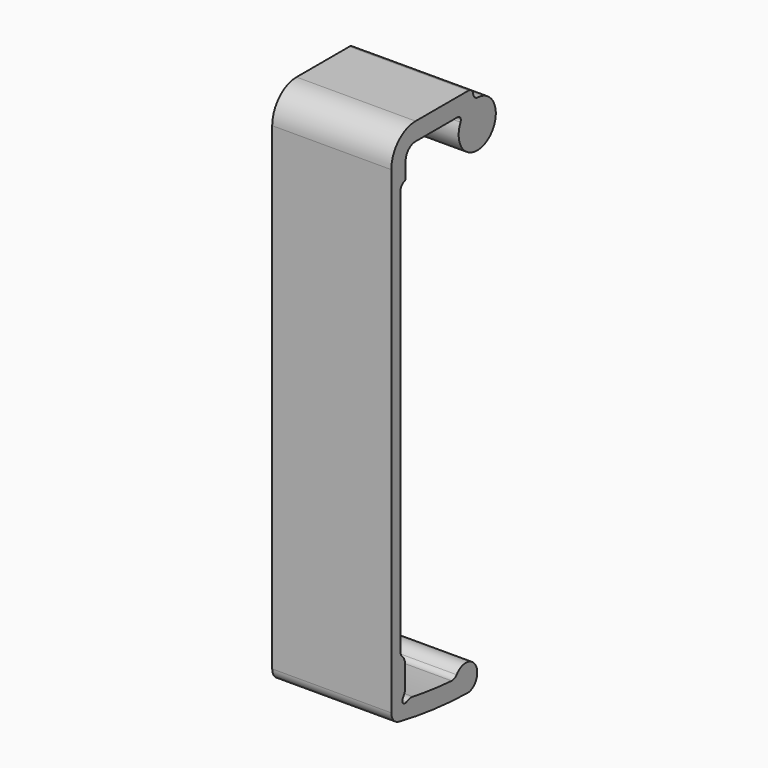
from build123d import *

# Parameters (mm, degrees)
F4_DEPTH = 10


with BuildPart() as f4:
    # F3 (on Right) → F4 (new body)
    with BuildSketch(Plane.YZ):
        with BuildLine():
            ThreePointArc((0.896797, 37.55), (1.193243, 37.386063), (1.211984, 37.047826))
            ThreePointArc((1.211984, 37.047826), (3.978949, 34.532505), (3.028454, 38.149064))
            ThreePointArc((3.028454, 38.149064), (2.716657, 38.270827), (2.551544, 38.561999))
            Line((2.551544, 38.561999), (2.53835, 38.636824))
            ThreePointArc((2.53835, 38.636824), (2.36734, 38.933022), (2.045946, 39.05))
            Line((2.045946, 39.05), (-3.5, 39.05))
            ThreePointArc((-3.5, 39.05), (-5.303122, 38.303122), (-6.05, 36.5))
            Line((-6.05, 36.5), (-6.05, -3.652234))
            ThreePointArc((-6.05, -3.652234), (-5.823706, -4.285779), (-5.247241, -4.632589))
            ThreePointArc((-5.247241, -4.632589), (-1.684461, -5.19016), (1.913195, -5.437463))
            ThreePointArc((1.913195, -5.437463), (2.415491, -5.316703), (2.790491, -4.961373))
            ThreePointArc((2.790491, -4.961373), (2.439869, -3.338701), (0.803605, -3.619133))
            ThreePointArc((0.803605, -3.619133), (0.573275, -3.806714), (0.281194, -3.860822))
            ThreePointArc((0.281194, -3.860822), (-1.76191, -3.671245), (-3.792662, -3.377539))
            ThreePointArc((-3.792662, -3.377539), (-4.132507, -3.37807), (-4.452549, -3.492386))
            ThreePointArc((-4.452549, -3.492386), (-4.830276, -3.423406), (-4.830769, -3.039432))
            ThreePointArc((-4.830769, -3.039432), (-4.65946, -2.740144), (-4.6, -2.400461))
            Line((-4.6, -2.400461), (-4.6, -0.661895))
            ThreePointArc((-4.6, -0.661895), (-4.681441, -0.26661), (-4.9125, 0.064289))
            ThreePointArc((-4.9125, 0.064289), (-5.051135, 0.262829), (-5.1, 0.5))
            Line((-5.1, 0.5), (-5.1, 34.5))
            ThreePointArc((-5.1, 34.5), (-4.977493, 34.863318), (-4.66, 35.078273))
            ThreePointArc((-4.66, 35.078273), (-4.580627, 35.132012), (-4.55, 35.222842))
            Line((-4.55, 35.222842), (-4.55, 36.5))
            ThreePointArc((-4.55, 36.5), (-4.242462, 37.242462), (-3.5, 37.55))
            Line((-3.5, 37.55), (0.896797, 37.55))
        make_face()
    extrude(amount=F4_DEPTH)


solid = f4.part
